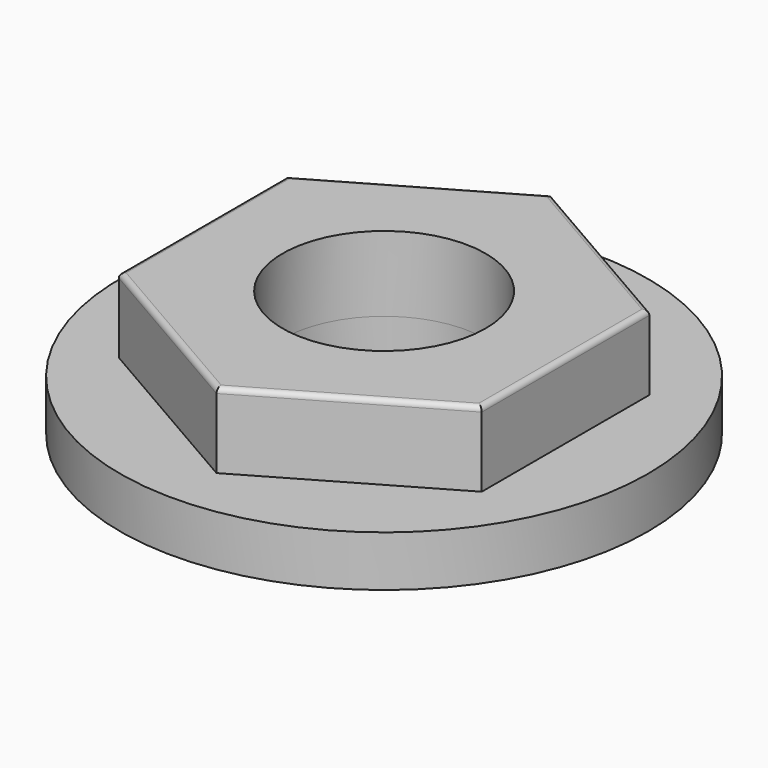
from build123d import *

# Parameters (mm, degrees)
F0_R          = 5.2
F1_DEPTH      = 1
F2_R          = 2
F3_DEPTH      = 1.48
F4_DEPTH      = 25
F4_DEPTH_BACK = 25
F5_R          = 0.1


with BuildPart() as f1:
    # F0 (on Top) → F1 (new body)
    with BuildSketch(Plane.XY):
        Circle(F0_R)
    extrude(amount=F1_DEPTH)

    # F2 (on face) → F3 (join)
    with BuildSketch(Plane.XY.offset(1)):
        Polygon((3.575, -2.064027), (3.575, 2.064027), (0, 4.128054), (-3.575, 2.064027), (-3.575, -2.064027), (0, -4.128054), align=None)
        Circle(F2_R, mode=Mode.SUBTRACT)
    extrude(amount=F3_DEPTH)

    # F2 (on face) → F4 (cut, two sides)
    with BuildSketch(Plane.XY.offset(1)) as f4_sk:
        Circle(F2_R)
    extrude(amount=-F4_DEPTH, mode=Mode.SUBTRACT)
    extrude(f4_sk.sketch, amount=-F4_DEPTH_BACK, mode=Mode.SUBTRACT)

    # F5
    f5_edges = [f1.edges().sort_by_distance(p)[0] for p in [
        (1.7875, -3.096041, 2.48),
        (3.575, 0, 2.48),
        (-1.7875, -3.096041, 2.48),
        (-3.575, 0, 2.48),
        (-1.7875, 3.096041, 2.48),
        (1.7875, 3.096041, 2.48),
    ]]
    fillet(f5_edges, radius=F5_R)


solid = f1.part
